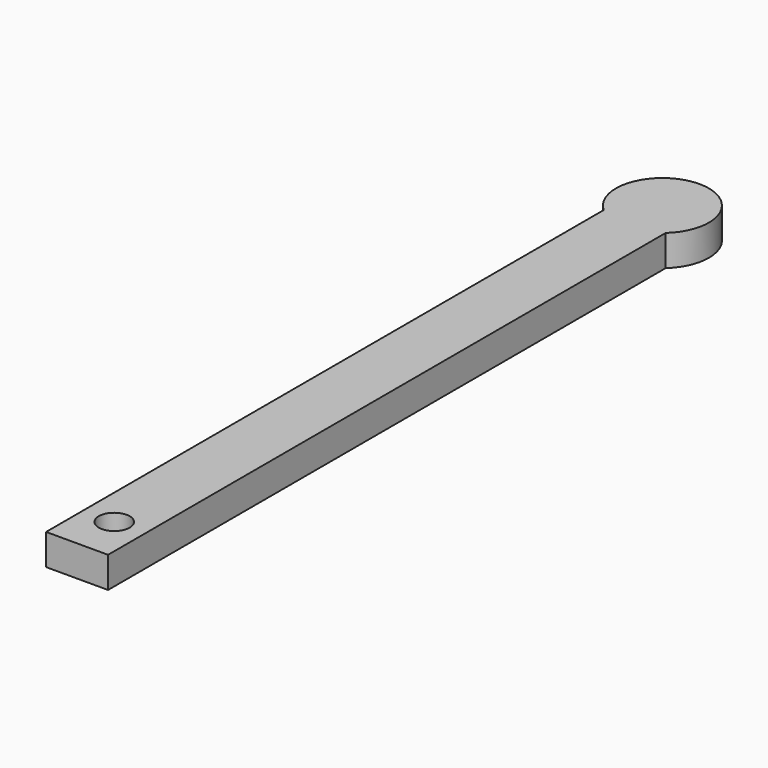
from build123d import *

# Parameters (mm, degrees)
F1_DEPTH = 20
F2_R     = 10
F3_DEPTH = 20.001


with BuildPart() as f1:
    # F0 (on Top) → F1 (new body)
    with BuildSketch(Plane.XY):
        with BuildLine():
            Line((-20, 0), (0, 0))
            Line((0, 0), (20, 0))
            Line((20, 0), (20, 450))
            ThreePointArc((20, 450), (0, 502.36068), (-20, 450))
            Line((-20, 450), (-20, 0))
        make_face()
    extrude(amount=F1_DEPTH)

    # F2 (on face) → F3 (cut, through all)
    with BuildSketch(Plane(origin=(0, 0, 0), x_dir=(1, 0, 0), z_dir=(0, 0, -1))):
        with Locations((0, -30)):
            Circle(F2_R)
    extrude(amount=-F3_DEPTH, mode=Mode.SUBTRACT)


solid = f1.part
